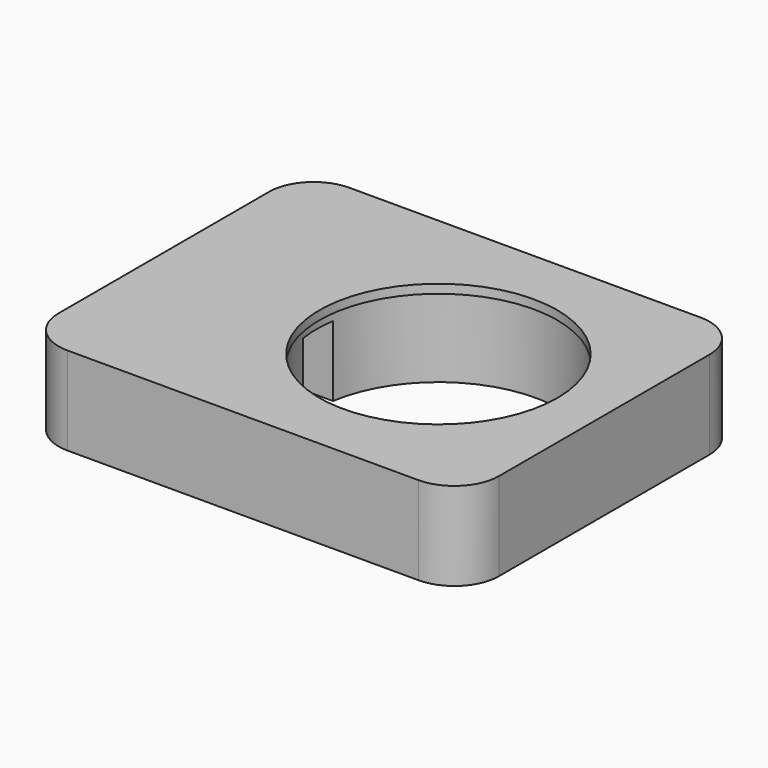
from build123d import *

# Parameters (mm, degrees)
F0_W     = 50
F0_H     = 40
F1_DEPTH = 10
F2_R     = 13.825
F3_DEPTH = 9
F4_R     = 13.5
F5_DEPTH = 1
F6_W     = 4.25
F6_H     = 8
F7_DEPTH = 17.515289916
F8_R     = 5.08


with BuildPart() as f1:
    # F0 (on Top) → F1 (new body)
    with BuildSketch(Plane.XY):
        Rectangle(F0_W, F0_H)
    extrude(amount=F1_DEPTH)

    # F2 (on face) → F3 (cut)
    with BuildSketch(Plane(origin=(0, 0, 0), x_dir=(1, 0, 0), z_dir=(0, 0, -1))):
        with Locations((6.175, 0)):
            Circle(F2_R)
    extrude(amount=-F3_DEPTH, mode=Mode.SUBTRACT)

    # F4 (on face) → F5 (cut, through all)
    with BuildSketch(Plane.XY.offset(10)):
        with Locations((6.175, 0)):
            Circle(F4_R)
    extrude(amount=-F5_DEPTH, mode=Mode.SUBTRACT)

    # F6 (on face) → F7 (cut, through all)
    with BuildSketch(Plane(origin=(-25, 0, 0), x_dir=(0, -1, 0), z_dir=(-1, 0, 0))):
        with Locations((0, 4)):
            Rectangle(F6_W, F6_H)
    extrude(amount=-F7_DEPTH, mode=Mode.SUBTRACT)

    # F8
    f8_edges = [f1.edges().sort_by_distance(p)[0] for p in [
        (25, -20, 5),
        (-25, -20, 5),
        (-25, 20, 5),
        (25, 20, 5),
    ]]
    fillet(f8_edges, radius=F8_R)


solid = f1.part
